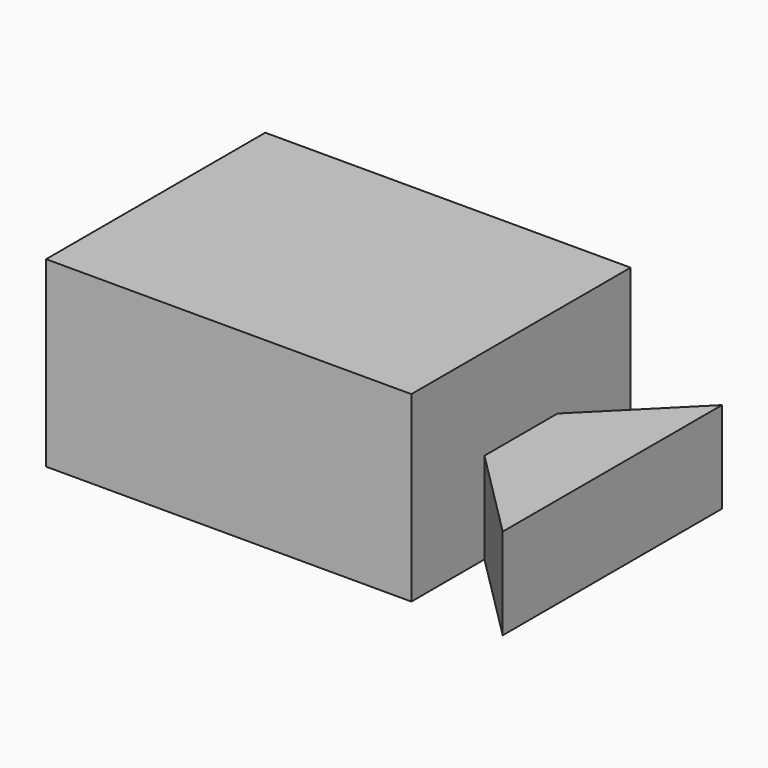
from build123d import *

# Parameters (mm, degrees)
F1_DEPTH = 50.8
F3_DEPTH = 25.4


with BuildPart() as f1:
    # F0 (on Top) → F1 (new body)
    with BuildSketch(Plane.XY):
        Polygon((0, 76.2), (0, 0), (101.6, 0), (101.6, 25.4), (127, 0), (127, 76.2), (101.6, 50.8), (101.6, 76.2), align=None)
    extrude(amount=F1_DEPTH)

    # F2 (on face) → F3 (cut)
    with BuildSketch(Plane.XY.offset(50.8)):
        Polygon((101.6, 50.8), (101.6, 25.4), (127, 0), (127, 76.2), align=None)
    extrude(amount=-F3_DEPTH, mode=Mode.SUBTRACT)


solid = f1.part
